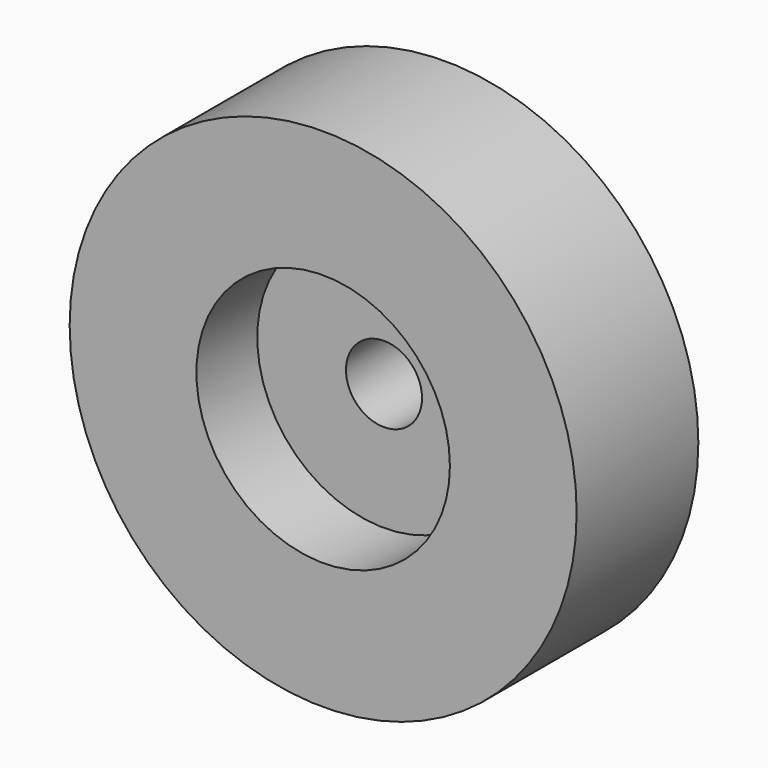
from build123d import *

# Parameters (mm, degrees)
F0_R     = 15.875
F0_R_2   = 4.7625
F1_DEPTH = 9.525
F0_R_3   = 31.75
F2_DEPTH = 19.05


with BuildPart() as f1:
    # F0 (on Front) → F1 (new body)
    with BuildSketch(Plane.XZ):
        Circle(F0_R)
        Circle(F0_R_2, mode=Mode.SUBTRACT)
    extrude(amount=F1_DEPTH)

    # F0 (on Front) → F2 (join)
    with BuildSketch(Plane.XZ):
        Circle(F0_R_3)
        Circle(F0_R, mode=Mode.SUBTRACT)
    extrude(amount=F2_DEPTH)


solid = f1.part
